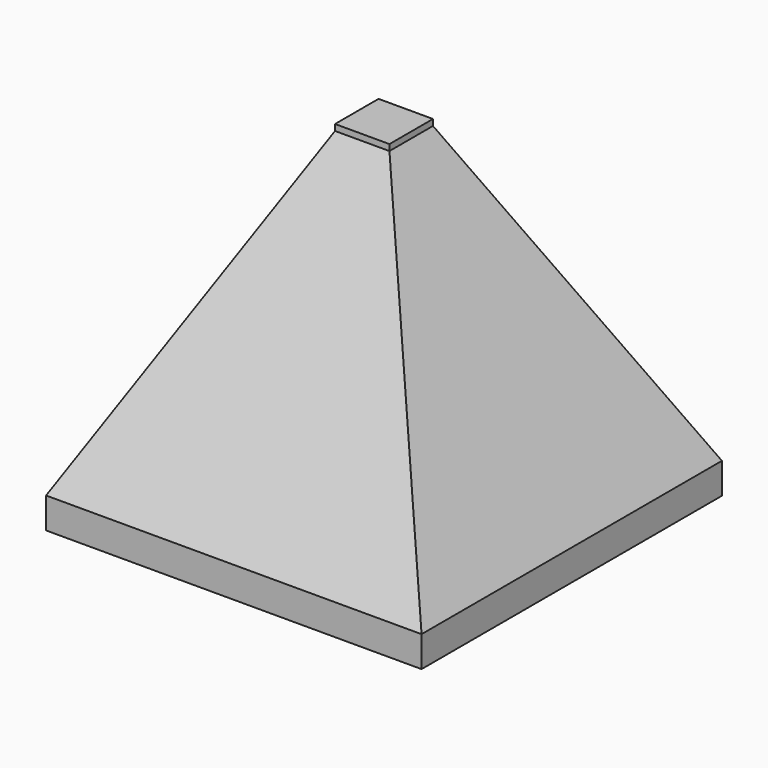
from build123d import *

# Parameters (mm, degrees)
F0_W      = 60.984724
F0_H      = 60.984724
F1_DEPTH  = 5
F3_W      = 8.838362
F3_H      = 8.838362
F4_DEPTH  = 1
F1_FACE_W = 60.984724
F1_FACE_H = 60.984724
F4_FACE_W = 8.838362
F4_FACE_H = 8.838362


with BuildPart() as f1:
    # F0 (on Top) → F1 (new body)
    with BuildSketch(Plane.XY):
        Rectangle(F0_W, F0_H)
    extrude(amount=F1_DEPTH)



with BuildPart() as f4:
    # F3 (on offset) → F4 (new body)
    with BuildSketch(Plane.XY.offset(55)):
        Rectangle(F3_W, F3_H)
    extrude(amount=F4_DEPTH)


with BuildPart() as f1_1:
    add(f1.part)

    add(f4.part)  # F5 merges F4
    # F1_face (on face) → F5 section 0
    with BuildSketch(Plane.XY.offset(5)):
        Rectangle(F1_FACE_W, F1_FACE_H)
    # F4_face (on face) → F5 section 1
    with BuildSketch(Plane(origin=(0, 0, 55), x_dir=(1, 0, 0), z_dir=(0, 0, -1))):
        Rectangle(F4_FACE_W, F4_FACE_H)
    loft()


solid = f1_1.part
